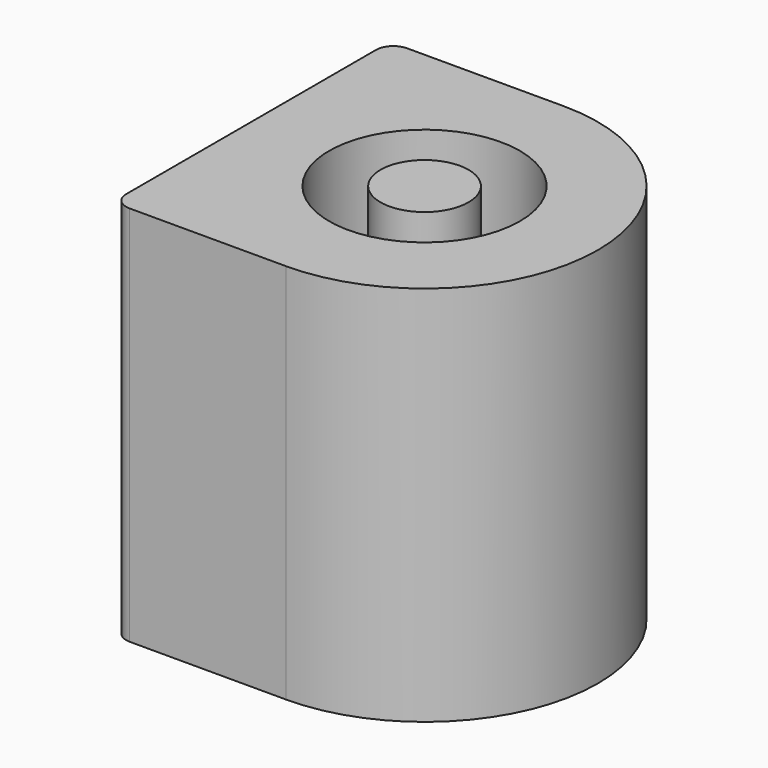
from build123d import *

# Parameters (mm, degrees)
F0_R     = 5.5
F1_DEPTH = 22
F0_R_2   = 2.54
F2_DEPTH = 2
F3_R     = 4.25
F4_DEPTH = 10
F5_DEPTH = 22
F6_R     = 1


with BuildPart() as f1:
    # F0 (on Top) → F1 (new body)
    with BuildSketch(Plane.XY):
        with BuildLine():
            Line((-10, -10), (0, -10))
            ThreePointArc((0, -10), (10, 0), (0, 10))
            Line((0, 10), (-10, 10))
            Line((-10, 10), (-10, -10))
        make_face()
        Circle(F0_R, mode=Mode.SUBTRACT)
    extrude(amount=F1_DEPTH)

    # F0 (on Top) → F2 (join)
    with BuildSketch(Plane.XY):
        Circle(F0_R)
        Circle(F0_R_2, mode=Mode.SUBTRACT)
    extrude(amount=F2_DEPTH)

    # F3 (on face) → F4 (cut)
    with BuildSketch(Plane(origin=(-10, 0, 0), x_dir=(0, -1, 0), z_dir=(-1, 0, 0))):
        with Locations((0, 11)):
            Circle(F3_R)
    extrude(amount=-F4_DEPTH, mode=Mode.SUBTRACT)

    # F0 (on Top) → F5 (join)
    with BuildSketch(Plane.XY):
        Circle(F0_R_2)
    extrude(amount=F5_DEPTH)

    # F6
    f6_edges = [f1.edges().sort_by_distance(p)[0] for p in [
        (-10, -10, 11),
        (-10, 10, 11),
        (-3.49106, 4.25, 11),
    ]]
    fillet(f6_edges, radius=F6_R)


solid = f1.part
